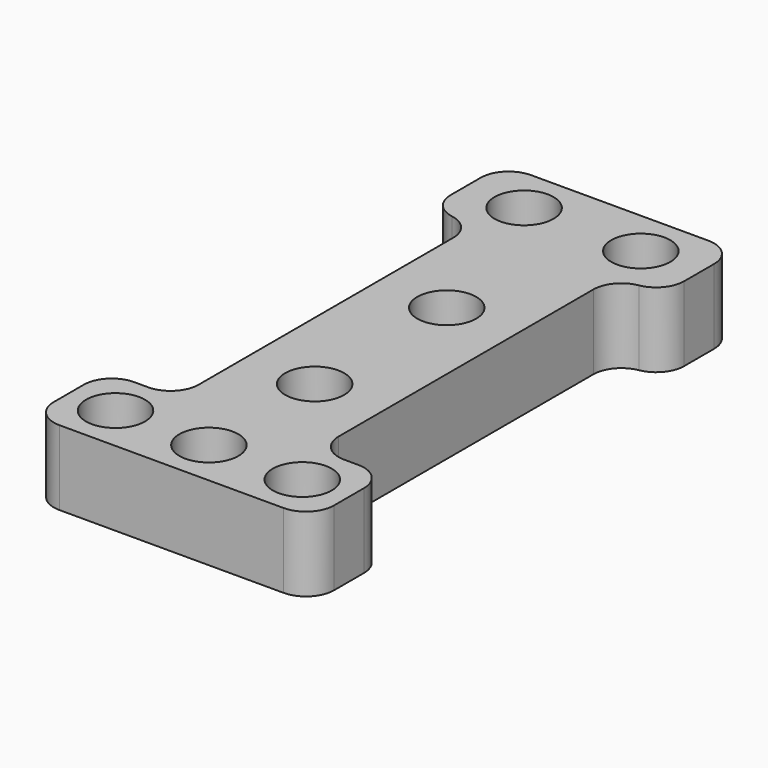
from build123d import *

# Parameters (mm, degrees)
F0_W      = 19.05
F0_H      = 63.5
F0_R      = 4.0132
F1_DEPTH  = 10.16
F2_R      = 4.0132
F3_DEPTH  = 25.4
F4_W      = 6.35
F4_H      = 12.7
F5_DEPTH  = 10.16
F7_DEPTH  = 25.4
F8_R      = 3.81
F9_R      = 3.81
F10_R     = 4.0132
F11_DEPTH = 25.4


with BuildPart() as f1:
    # F0 (on Top) → F1 (new body)
    with BuildSketch(Plane.XY):
        with Locations((0, 38.1)):
            Rectangle(F0_W, F0_H)
        Polygon((-19.05, -6.35), (19.05, -6.35), (19.05, 6.35), (9.525, 6.35), (-9.525, 6.35), (-19.05, 6.35), align=None)
        with Locations((-12.7, 0)):
            Circle(F0_R, mode=Mode.SUBTRACT)
        Circle(F0_R, mode=Mode.SUBTRACT)
        with Locations((12.7, 0)):
            Circle(F0_R, mode=Mode.SUBTRACT)
    extrude(amount=F1_DEPTH)

    # F2 (on face) → F3 (cut)
    with BuildSketch(Plane(origin=(0, 0, 0), x_dir=(1, 0, 0), z_dir=(0, 0, -1))):
        with Locations((0, -17.9832)):
            Circle(F2_R)
    extrude(amount=-F3_DEPTH, mode=Mode.SUBTRACT)

    # F4 (on face) → F5 (join)
    with BuildSketch(Plane(origin=(0, 0, 0), x_dir=(1, 0, 0), z_dir=(0, 0, -1))):
        with Locations((-12.7, -63.5)):
            Rectangle(F4_W, F4_H)
        with Locations((12.7, -63.5)):
            Rectangle(F4_W, F4_H)
    extrude(amount=-F5_DEPTH)

    # F6 (on face) → F7 (cut)
    with BuildSketch(Plane(origin=(0, 0, 0), x_dir=(1, 0, 0), z_dir=(0, 0, -1))):
        with BuildLine():
            ThreePointArc((-11.9507, -63.5), (-7.9375, -67.5132), (-3.9243, -63.5))
            Line((-3.9243, -63.5), (-11.9507, -63.5))
        make_face()
        with BuildLine():
            Line((-11.9507, -63.5), (-3.9243, -63.5))
            ThreePointArc((-3.9243, -63.5), (-7.9375, -59.4868), (-11.9507, -63.5))
        make_face()
        with BuildLine():
            Line((3.9243, -63.5), (11.9507, -63.5))
            ThreePointArc((11.9507, -63.5), (7.9375, -59.4868), (3.9243, -63.5))
        make_face()
        with BuildLine():
            ThreePointArc((3.9243, -63.5), (7.9375, -67.5132), (11.9507, -63.5))
            Line((11.9507, -63.5), (3.9243, -63.5))
        make_face()
    extrude(amount=-F7_DEPTH, mode=Mode.SUBTRACT)

    # F8
    f8_edges = [f1.edges().sort_by_distance(p)[0] for p in [
        (19.05, -6.35, 5.08),
        (-19.05, -6.35, 5.08),
        (-19.05, 6.35, 5.08),
        (19.05, 6.35, 5.08),
        (15.875, 57.15, 5.08),
        (15.875, 69.85, 5.08),
        (-15.875, 69.85, 5.08),
        (-15.875, 57.15, 5.08),
    ]]
    fillet(f8_edges, radius=F8_R)

    # F9
    f9_edges = [f1.edges().sort_by_distance(p)[0] for p in [
        (-9.525, 6.35, 5.08),
        (-9.525, 57.15, 5.08),
        (9.525, 6.35, 5.08),
        (9.525, 57.15, 5.08),
    ]]
    fillet(f9_edges, radius=F9_R)

    # F10 (on face) → F11 (cut)
    with BuildSketch(Plane(origin=(0, 0, 0), x_dir=(1, 0, 0), z_dir=(0, 0, -1))):
        with Locations((0, -40.4368)):
            Circle(F10_R)
    extrude(amount=-F11_DEPTH, mode=Mode.SUBTRACT)


solid = f1.part
